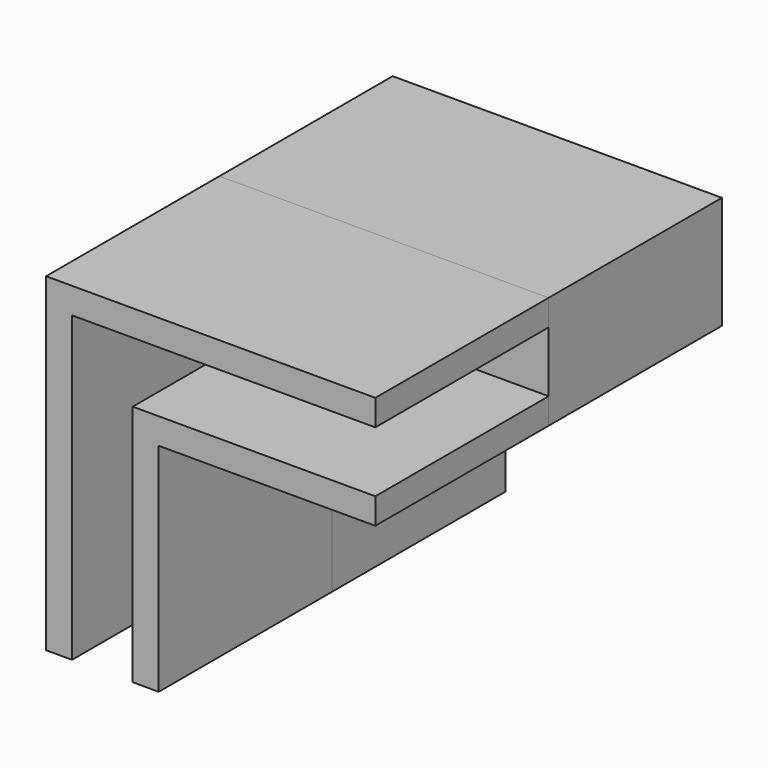
from build123d import *

# Parameters (mm, degrees)
F1_DEPTH = 25
F2_DEPTH = 25


with BuildPart() as f1:
    # F0 (on Front) → F1 (new body)
    with BuildSketch(Plane.XZ):
        Polygon((-13, -25), (-10, -25), (-10, 0), (-10, 10), (6.992714, 10), (25, 10), (25, 13), (6.992714, 13), (-13, 13), (-13, 0), align=None)
        Polygon((-3, -25), (0, -25), (0, 0), (25, 0), (25, 3), (-3, 3), align=None)
    extrude(amount=F1_DEPTH)


with BuildPart() as f2:
    # F0 (on Front) → F2 (new body)
    with BuildSketch(Plane.XZ):
        Polygon((-3, -25), (0, -25), (0, 0), (25, 0), (25, 3), (-3, 3), align=None)
        Polygon((-10, -25), (-3, -25), (-3, 3), (25, 3), (25, 10), (6.992714, 10), (-10, 10), (-10, 0), align=None)
        Polygon((-13, -25), (-10, -25), (-10, 0), (-10, 10), (6.992714, 10), (25, 10), (25, 13), (6.992714, 13), (-13, 13), (-13, 0), align=None)
    extrude(amount=-F2_DEPTH)


solid = Compound([f1.part, f2.part])
